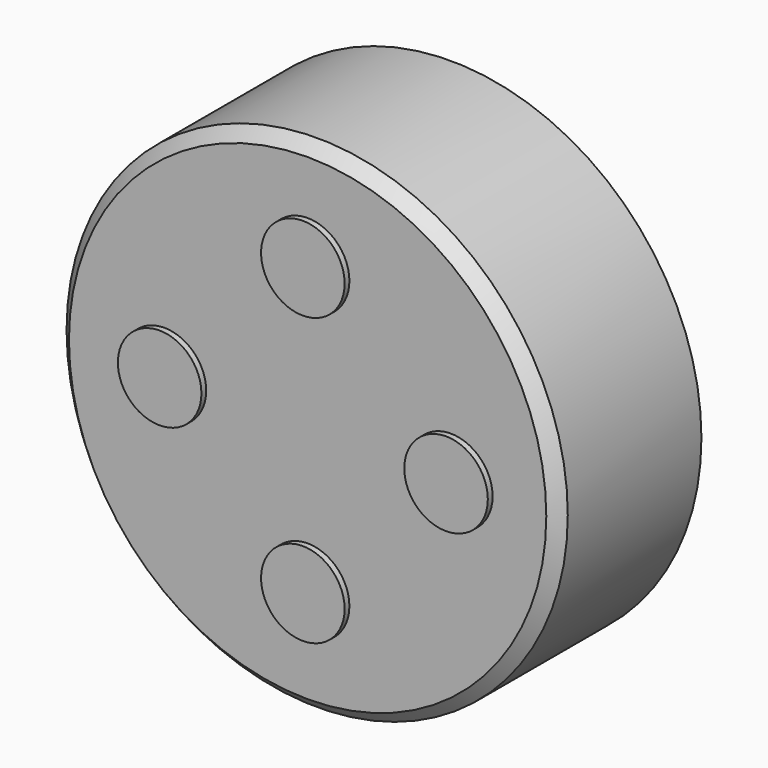
from build123d import *

# Parameters (mm, degrees)
F0_R     = 42
F1_DEPTH = 32
F2_SIZE2 = 5
F2_SIZE  = 2
F3_SIZE  = 2
F4_R     = 7
F5_DEPTH = 1


with BuildPart() as f1:
    # F0 (on Front) → F1 (new body)
    with BuildSketch(Plane.XZ):
        Circle(F0_R)
    extrude(amount=F1_DEPTH)

    # F2
    f2_edges = [f1.edges().sort_by_distance(p)[0] for p in [
        (-42, 0, 0),
    ]]
    chamfer(f2_edges, length=F2_SIZE, length2=F2_SIZE2)

    # F3
    f3_edges = [f1.edges().sort_by_distance(p)[0] for p in [
        (-42, -32, 0),
    ]]
    chamfer(f3_edges, length=F3_SIZE)

    # F4 (on face) → F5 (join)
    with BuildSketch(Plane.XZ.offset(32)):
        with Locations((-24, 0)):
            Circle(F4_R)
        with Locations((24, 0)):
            Circle(F4_R)
        with Locations((0, 24)):
            Circle(F4_R)
        with Locations((0, -24)):
            Circle(F4_R)
    extrude(amount=F5_DEPTH)


solid = f1.part
